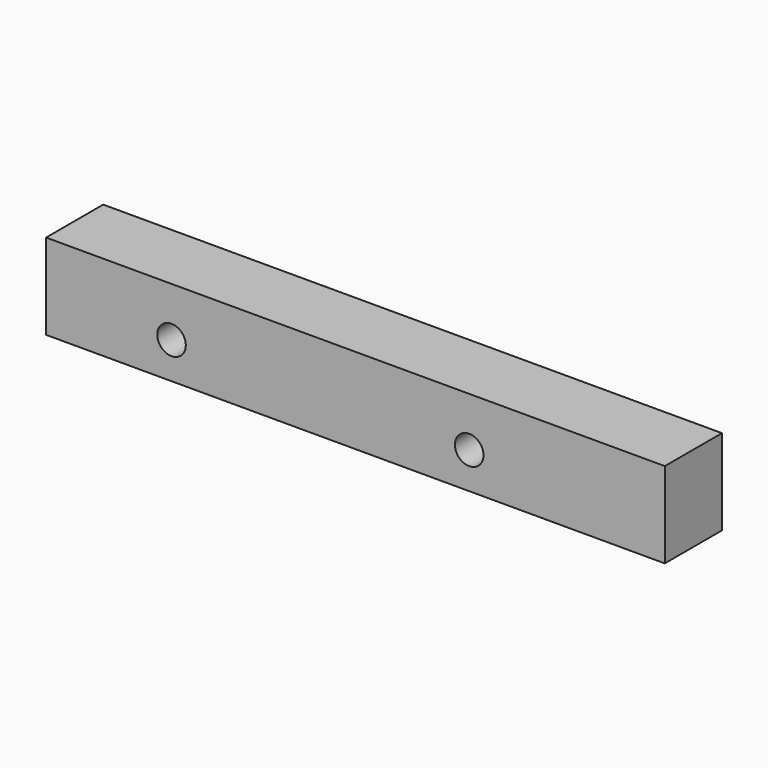
from build123d import *

# Parameters (mm, degrees)
F0_W          = 130
F0_H          = 18
F0_R          = 3
F1_DEPTH      = 7.5
F2_R          = 3
F3_DEPTH      = 7.501
F3_DEPTH_BACK = 25


with BuildPart() as f1:
    # F0 (on Front) → F1 (new body, symmetric)
    with BuildSketch(Plane.XZ):
        with Locations((0, -9)):
            Rectangle(F0_W, F0_H)
        with Locations((-32.9453274608, -9.836692363)):
            Circle(F0_R, mode=Mode.SUBTRACT)
        with Locations((41.1642305553, -9.836692363)):
            Circle(F0_R, mode=Mode.SUBTRACT)
        with Locations((-32.9453274608, -9.836692363)):
            Circle(F0_R)
        with Locations((41.1642305553, -9.836692363)):
            Circle(F0_R)
    extrude(amount=F1_DEPTH, both=True)

    # F2 (on Front) → F3 (cut, two sides)
    with BuildSketch(Plane.XZ) as f3_sk:
        with Locations((-38.6426560581, -10.3746056557)):
            Circle(F2_R)
        with Locations((23.9025931805, -10.3746056557)):
            Circle(F2_R)
    extrude(amount=-F3_DEPTH, mode=Mode.SUBTRACT)
    extrude(f3_sk.sketch, amount=F3_DEPTH_BACK, mode=Mode.SUBTRACT)


solid = f1.part
